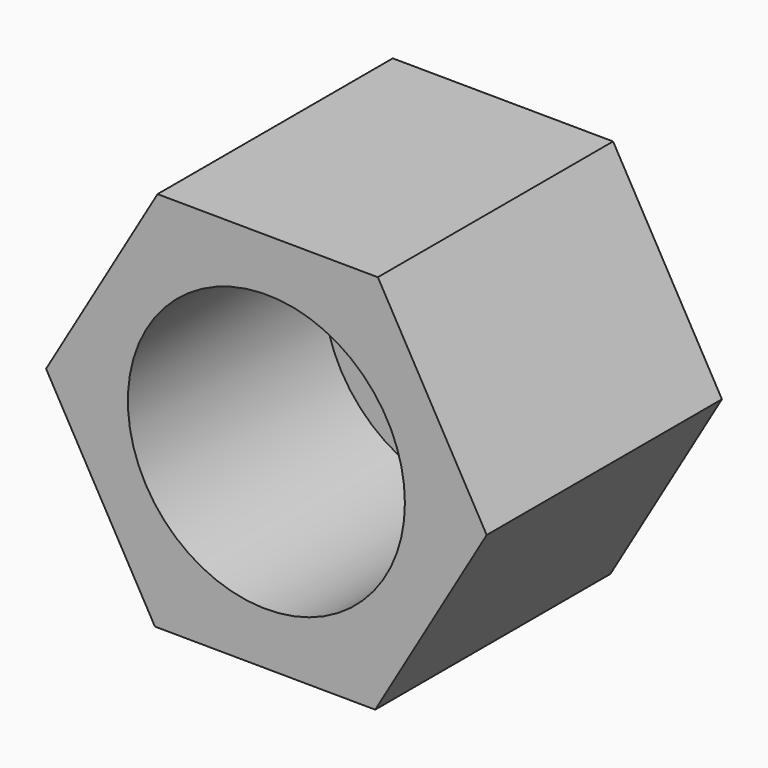
from build123d import *

# Parameters (mm, degrees)
F1_DEPTH = 7.14375
F2_R     = 2.4511
F3_DEPTH = 7.14475
F4_R     = 3.3655
F5_DEPTH = 5.9436


with BuildPart() as f1:
    # F0 (on Front) → F1 (new body)
    with BuildSketch(Plane.XZ):
        Polygon((-2.644188, 4.653896), (-5.352486, 0.037014), (-2.708298, -4.616882), (2.644188, -4.653896), (5.352486, -0.037014), (2.708298, 4.616882), align=None)
    extrude(amount=F1_DEPTH)

    # F2 (on face) → F3 (cut, through all)
    with BuildSketch(Plane.XZ.offset(7.14375)):
        Circle(F2_R)
    extrude(amount=-F3_DEPTH, mode=Mode.SUBTRACT)

    # F4 (on face) → F5 (cut)
    with BuildSketch(Plane.XZ.offset(7.14375)):
        Circle(F4_R)
    extrude(amount=-F5_DEPTH, mode=Mode.SUBTRACT)


solid = f1.part
